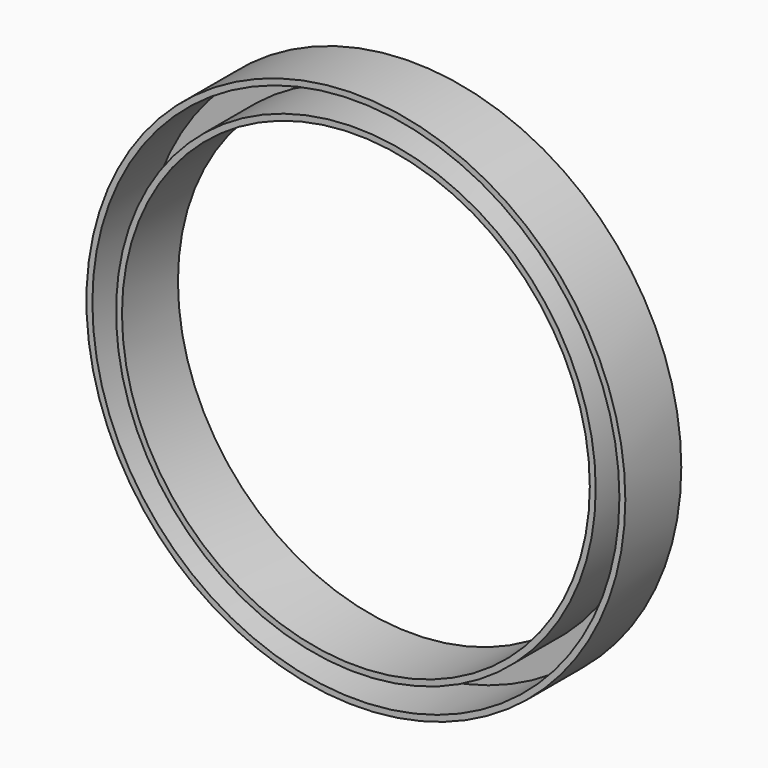
from build123d import *

# Parameters (mm, degrees)
F0_R     = 115.57
F0_R_2   = 100.33
F1_DEPTH = 30
F2_T     = -2.54
F4_D     = 2.1


with BuildPart() as f1:
    # F0 (on Front) → F1 (new body)
    with BuildSketch(Plane.XZ):
        Circle(F0_R)
        Circle(F0_R_2, mode=Mode.SUBTRACT)
    extrude(amount=F1_DEPTH)

    # F2
    f2_openings = [f1.faces().sort_by_distance(p)[0] for p in [
        (-112.301187, -30, 0),
    ]]
    offset(amount=F2_T, openings=f2_openings)

    # F4 (through all)
    with Locations(Plane.XZ.offset(2.54)):
        with Locations((0, 107.667133)):
            Hole(F4_D / 2)


solid = f1.part
